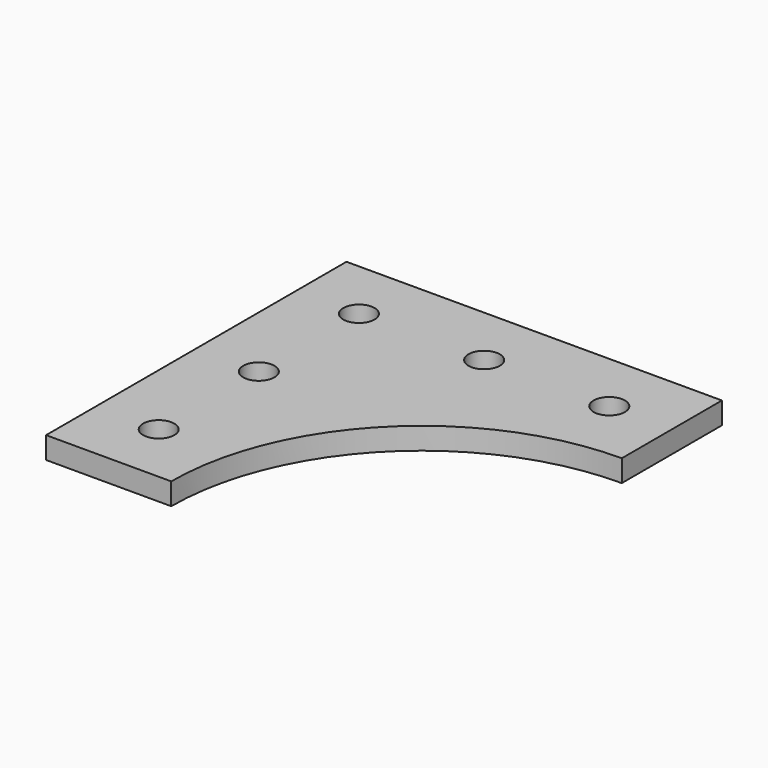
from build123d import *

# Parameters (mm, degrees)
F0_R     = 2.5
F1_DEPTH = 3.5


with BuildPart() as f1:
    # F0 (on Top) → F1 (new body)
    with BuildSketch(Plane.XY):
        with BuildLine():
            Line((-30, 30), (-30, -30))
            Line((-30, -30), (-10, -30))
            ThreePointArc((-10, -30), (1.715729, -1.715729), (30, 10))
            Line((30, 10), (30, 30))
            Line((30, 30), (-30, 30))
        make_face()
        with Locations((-20, -20)):
            Circle(F0_R, mode=Mode.SUBTRACT)
        with Locations((-20, 0)):
            Circle(F0_R, mode=Mode.SUBTRACT)
        with Locations((-20, 20)):
            Circle(F0_R, mode=Mode.SUBTRACT)
        with Locations((0, 20)):
            Circle(F0_R, mode=Mode.SUBTRACT)
        with Locations((20, 20)):
            Circle(F0_R, mode=Mode.SUBTRACT)
    extrude(amount=F1_DEPTH)


solid = f1.part
